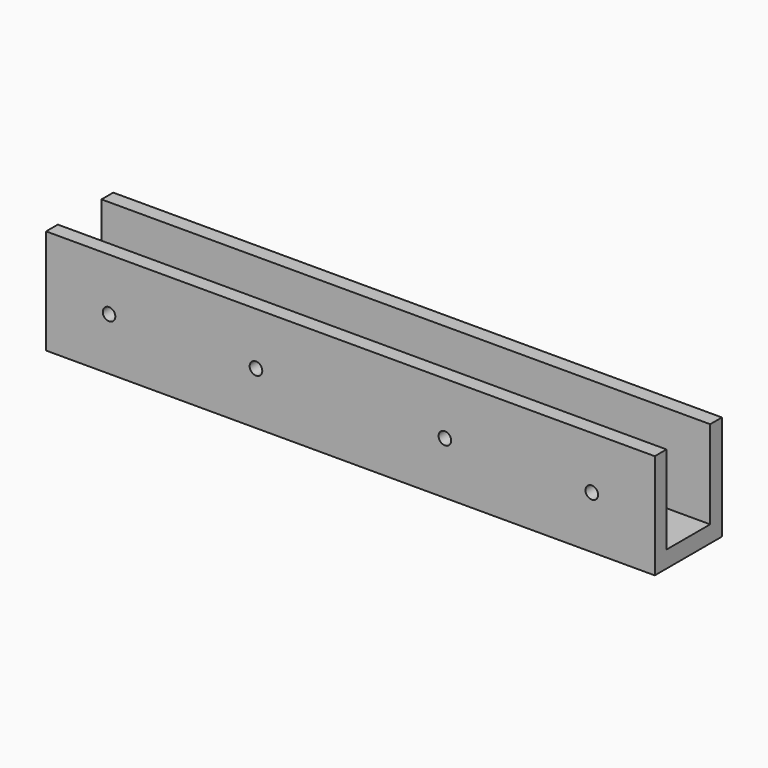
from build123d import *

# Parameters (mm, degrees)
F1_DEPTH = 145
F3_D     = 3


with BuildPart() as f1:
    # F0 (on Right) → F1 (new body)
    with BuildSketch(Plane.YZ):
        Polygon((-10, 0), (0, 0), (10, 0), (10, 25), (6.5, 25), (6.5, 4), (0, 4), (-6.5, 4), (-6.5, 25), (-10, 25), align=None)
    extrude(amount=F1_DEPTH)

    # F3 (through all)
    with Locations(Plane.XZ.offset(10)):
        with Locations((15, 12.5), (50, 12.5), (95, 12.5), (130, 12.5)):
            Hole(F3_D / 2)


solid = f1.part
